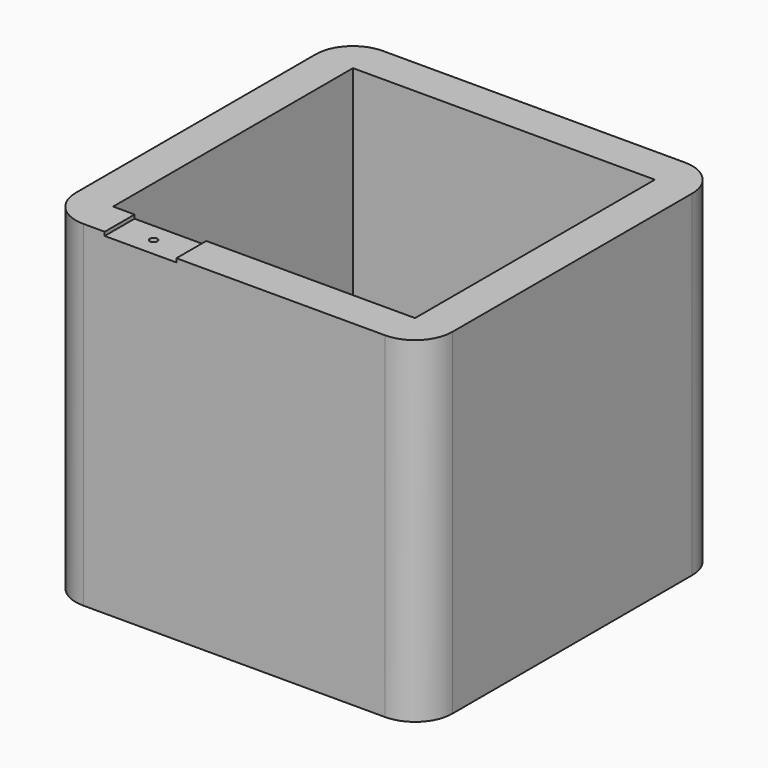
from build123d import *

# Parameters (mm, degrees)
F0_W     = 50.4226610065
F0_H     = 50.1393936574
F1_DEPTH = 45
F2_T     = -5
F3_W     = 9.6008158289
F3_H     = 5
F4_DEPTH = 0.5
F6_D     = 1
F6_DEPTH = 2
F6_TIP   = 0.3004303095
F7_R     = 5


with BuildPart() as f1:
    # F0 (on Top) → F1 (new body)
    with BuildSketch(Plane.XY):
        Rectangle(F0_W, F0_H)
    extrude(amount=F1_DEPTH)

    # F2
    f2_openings = [f1.faces().sort_by_distance(p)[0] for p in [
        (0, 0, 45),
    ]]
    offset(amount=F2_T, openings=f2_openings)

    # F3 (on face) → F4 (cut)
    with BuildSketch(Plane.XY.offset(45)):
        with Locations((-12.5397194643, -22.5696968287)):
            Rectangle(F3_W, F3_H)
    extrude(amount=-F4_DEPTH, mode=Mode.SUBTRACT)

    # F6 (one way)
    with BuildSketch(Plane.XY.offset(44.5)):
        with Locations((-12.7751557156, -22.5923974067), (12.2276665643, -22.5696968287)):
            Circle(F6_D / 2)
    extrude(amount=-F6_DEPTH, mode=Mode.SUBTRACT)
    with Locations(Plane.XY.offset(44.5)):
        with Locations((-12.7751557156, -22.5923974067), (12.2276665643, -22.5696968287)):
            with Locations((0, 0, -(F6_DEPTH + F6_TIP / 2))):  # 118° drill point
                Cone(0, F6_D / 2, F6_TIP, mode=Mode.SUBTRACT)

    # F7
    f7_edges = [f1.edges().sort_by_distance(p)[0] for p in [
        (25.211331, -25.069697, 22.5),
        (-25.211331, -25.069697, 22.5),
        (-25.211331, 25.069697, 22.5),
        (25.211331, 25.069697, 22.5),
    ]]
    fillet(f7_edges, radius=F7_R)


solid = f1.part
